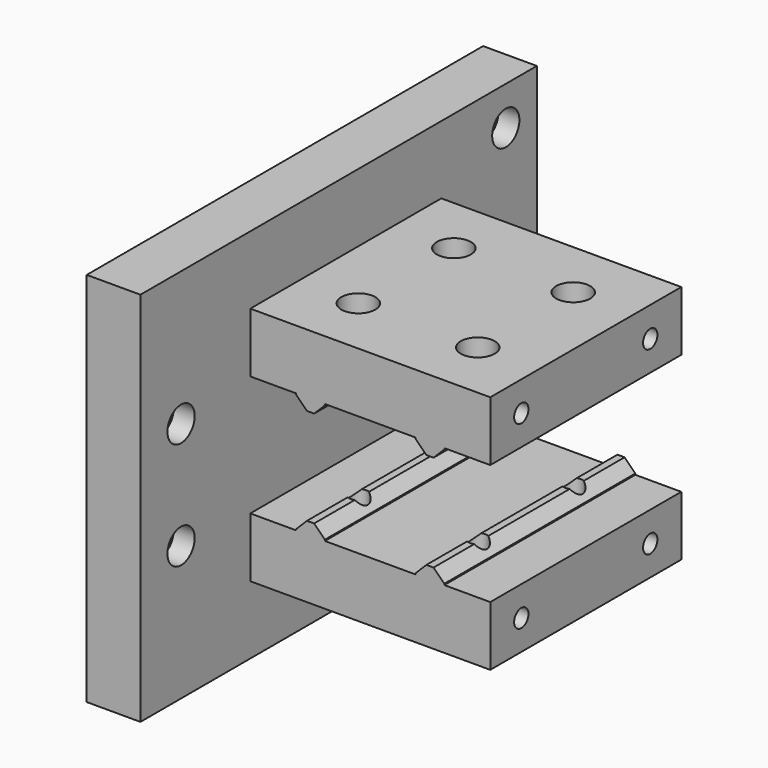
from build123d import *

# Parameters (mm, degrees)
F1_W      = 9
F1_H      = 83
F2_DEPTH  = 63
F3_R      = 2.85
F4_DEPTH  = 3.5
F5_R      = 1.6
F6_DEPTH  = 25
F7_W      = 40
F7_H      = 10
F8_DEPTH  = 40.2
F9_W      = 4.8
F9_H      = 40
F10_DEPTH = 2
F11_SIZE  = 1.8
F12_R     = 1.6
F13_DEPTH = 25
F14_W     = 4.8
F14_H     = 40
F15_DEPTH = 2
F16_SIZE  = 1.8
F17_R     = 1.6
F18_DEPTH = 25
F19_R     = 2.85
F20_DEPTH = 3.5
F21_R     = 2.85
F22_DEPTH = 3.5
F23_R     = 1.5
F24_DEPTH = 10


with BuildPart() as f2:
    # F1 (on Top) → F2 (new body)
    with BuildSketch(Plane.XY):
        with Locations((4.5, 41.5)):
            Rectangle(F1_W, F1_H)
        with Locations((4.5, 41.5)):
            Rectangle(F1_W, F1_H)
    extrude(amount=F2_DEPTH)

    # F3 (on face) → F4 (cut)
    with BuildSketch(Plane.YZ.offset(9)):
        with Locations((8.5, 40.5)):
            Circle(F3_R)
        with Locations((8.5, 22.5)):
            Circle(F3_R)
        with Locations((76.5, 56.5)):
            Circle(F3_R)
        with Locations((76.5, 38.5)):
            Circle(F3_R)
        with Locations((76.5, 24.5)):
            Circle(F3_R)
        with Locations((76.5, 6.5)):
            Circle(F3_R)
        with Locations((8.5, 40.5)):
            Circle(F3_R)
    extrude(amount=-F4_DEPTH, mode=Mode.SUBTRACT)

    # F5 (on face) → F6 (cut)
    with BuildSketch(Plane.YZ.offset(9)):
        with Locations((8.5, 40.5)):
            Circle(F5_R)
        with Locations((8.5, 22.5)):
            Circle(F5_R)
        with Locations((76.5, 24.5)):
            Circle(F5_R)
        with Locations((76.5, 38.5)):
            Circle(F5_R)
        with Locations((76.5, 56.5)):
            Circle(F5_R)
        with Locations((76.5, 6.5)):
            Circle(F5_R)
    extrude(amount=-F6_DEPTH, mode=Mode.SUBTRACT)

    # F7 (on face) → F8 (join)
    with BuildSketch(Plane.YZ.offset(9)):
        with Locations((43, 16.4)):
            Rectangle(F7_W, F7_H)
        with Locations((43, 46.6)):
            Rectangle(F7_W, F7_H)
    extrude(amount=F8_DEPTH)

    # F9 (on face) → F10 (join)
    with BuildSketch(Plane(origin=(0, 0, 41.6), x_dir=(1, 0, 0), z_dir=(0, 0, -1))):
        with Locations((19.1, -43)):
            Rectangle(F9_W, F9_H)
        with Locations((39.1, -43)):
            Rectangle(F9_W, F9_H)
    extrude(amount=F10_DEPTH)

    # F11
    f11_edges = [f2.edges().sort_by_distance(p)[0] for p in [
        (21.5, 43, 39.6),
        (16.7, 43, 39.6),
        (41.5, 43, 39.6),
        (36.7, 43, 39.6),
    ]]
    chamfer(f11_edges, length=F11_SIZE)

    # F12 (on face) → F13 (cut)
    with BuildSketch(Plane(origin=(0, 0, 39.6), x_dir=(1, 0, 0), z_dir=(0, 0, -1))):
        with Locations((19.1, -33)):
            Circle(F12_R)
        with Locations((19.1, -53)):
            Circle(F12_R)
        with Locations((39.1, -33)):
            Circle(F12_R)
        with Locations((39.1, -53)):
            Circle(F12_R)
    extrude(amount=-F13_DEPTH, mode=Mode.SUBTRACT)

    # F14 (on face) → F15 (join)
    with BuildSketch(Plane.XY.offset(21.4)):
        with Locations((19.1, 43)):
            Rectangle(F14_W, F14_H)
        with Locations((39.1, 43)):
            Rectangle(F14_W, F14_H)
    extrude(amount=F15_DEPTH)

    # F16
    f16_edges = [f2.edges().sort_by_distance(p)[0] for p in [
        (21.5, 43, 23.4),
        (16.7, 43, 23.4),
        (36.7, 43, 23.4),
        (41.5, 43, 23.4),
    ]]
    chamfer(f16_edges, length=F16_SIZE)

    # F17 (on face) → F18 (cut)
    with BuildSketch(Plane.XY.offset(23.4)):
        with Locations((19.1, 33)):
            Circle(F17_R)
        with Locations((19.1, 53)):
            Circle(F17_R)
        with Locations((39.1, 33)):
            Circle(F17_R)
        with Locations((39.1, 53)):
            Circle(F17_R)
    extrude(amount=-F18_DEPTH, mode=Mode.SUBTRACT)

    # F19 (on face) → F20 (cut)
    with BuildSketch(Plane(origin=(0, 0, 11.4), x_dir=(1, 0, 0), z_dir=(0, 0, -1))):
        with Locations((19.1, -33)):
            Circle(F19_R)
        with Locations((19.1, -53)):
            Circle(F19_R)
        with Locations((39.1, -33)):
            Circle(F19_R)
        with Locations((39.1, -53)):
            Circle(F19_R)
    extrude(amount=-F20_DEPTH, mode=Mode.SUBTRACT)

    # F21 (on face) → F22 (cut)
    with BuildSketch(Plane.XY.offset(51.6)):
        with Locations((19.1, 53)):
            Circle(F21_R)
        with Locations((19.1, 33)):
            Circle(F21_R)
        with Locations((39.1, 53)):
            Circle(F21_R)
        with Locations((39.1, 33)):
            Circle(F21_R)
    extrude(amount=-F22_DEPTH, mode=Mode.SUBTRACT)

    # F23 (on face) → F24 (cut)
    with BuildSketch(Plane.YZ.offset(49.2)):
        with Locations((56.5, 16.4)):
            Circle(F23_R)
        with Locations((29.5, 16.4)):
            Circle(F23_R)
        with Locations((29.5, 46.6)):
            Circle(F23_R)
        with Locations((56.5, 46.6)):
            Circle(F23_R)
    extrude(amount=-F24_DEPTH, mode=Mode.SUBTRACT)


solid = f2.part
